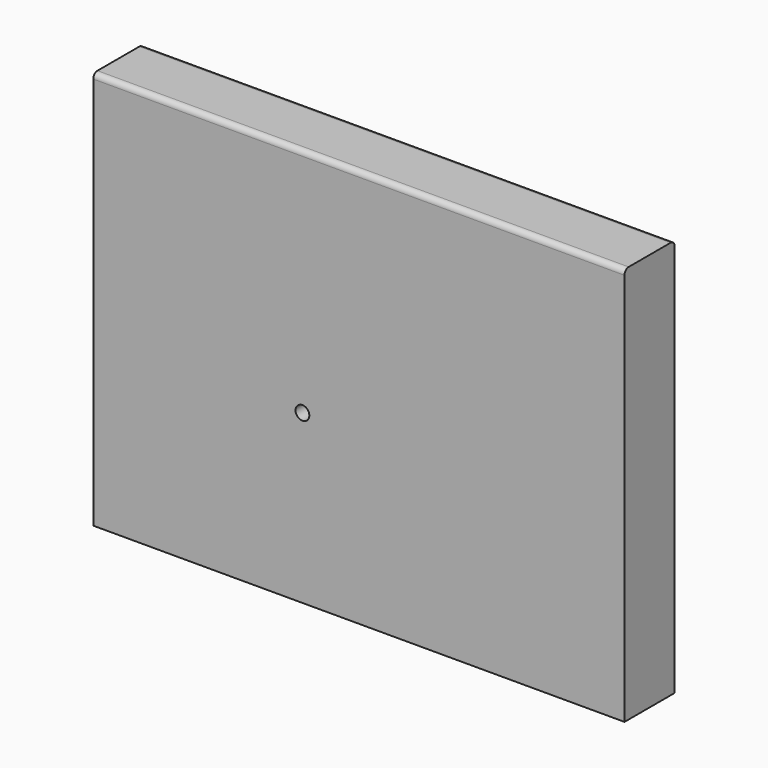
from build123d import *

# Parameters (mm, degrees)
F0_W     = 508
F0_H     = 381
F1_DEPTH = 60
F3_D     = 13.2
F3_DEPTH = 20
F3_TIP   = 3.9656800856
F4_R     = 5


with BuildPart() as f1:
    # F0 (on Front) → F1 (new body)
    with BuildSketch(Plane.XZ):
        with Locations((254, 190.5)):
            Rectangle(F0_W, F0_H)
    extrude(amount=F1_DEPTH)

    # F3
    with Locations(Plane.XZ.offset(60)):
        with Locations((200, 160)):
            Hole(F3_D / 2, depth=F3_DEPTH)
            with Locations((0, 0, -(F3_DEPTH + F3_TIP / 2))):  # 118° drill point
                Cone(0, F3_D / 2, F3_TIP, mode=Mode.SUBTRACT)

    # F4
    f4_edges = [f1.edges().sort_by_distance(p)[0] for p in [
        (254, -60, 381),
        (254, 0, 381),
    ]]
    fillet(f4_edges, radius=F4_R)


solid = f1.part
